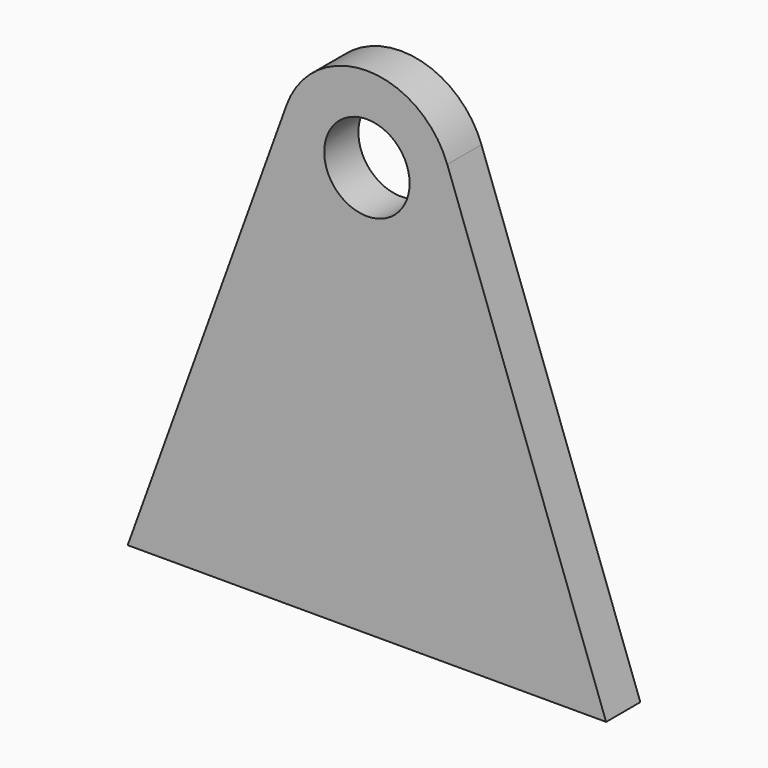
from build123d import *

# Parameters (mm, degrees)
F0_R     = 25
F1_DEPTH = 25


with BuildPart() as f1:
    # F0 (on Front) → F1 (new body)
    with BuildSketch(Plane.XZ):
        with BuildLine():
            ThreePointArc((47.017566, 17.010247), (49.248748, 8.634863), (50, 0))
            ThreePointArc((50, 0), (-8.634862, -49.248748), (-47.017566, 17.010246))
            Line((-47.017566, 17.010246), (-140, -240))
            Line((-140, -240), (0, -240))
            Line((0, -240), (140, -240))
            Line((140, -240), (47.017566, 17.010247))
        make_face()
        with BuildLine():
            ThreePointArc((-47.017566, 17.010246), (-8.634862, -49.248748), (50, 0))
            ThreePointArc((50, 0), (49.248748, 8.634863), (47.017566, 17.010247))
            ThreePointArc((47.017566, 17.010247), (-1e-06, 50), (-47.017566, 17.010246))
        make_face()
        Circle(F0_R, mode=Mode.SUBTRACT)
    extrude(amount=F1_DEPTH)


solid = f1.part
